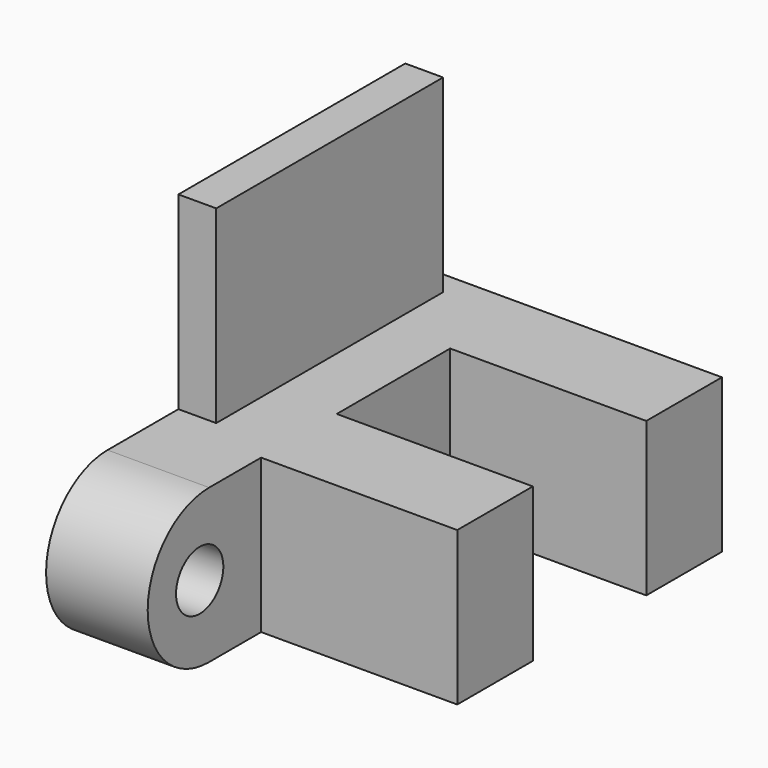
from build123d import *

# Parameters (mm, degrees)
SKETCH009_R               = 1.25
EXTRUDE006_DEPTH          = 1.6
SKETCH007_R               = 1.25
EXTRUDE004_DEPTH          = 11
EXTRUDE003_DEPTH          = 3.3
FUSION021_ROLL_ANGLE      = -90
FUSION021_PLACEMENT_ANGLE = -90


with BuildPart() as opticalsensorpcbonlyonetab:
    # Sketch009 → Extrude006 (new body)
    with BuildSketch(Plane.XY):
        with BuildLine():
            Line((-6, 0), (6, 0))
            Line((6, 0), (6, 8))
            Line((6, 8), (9.75, 8))
            ThreePointArc((9.75, 8), (13, 11.25), (9.75, 14.5))
            Line((-7, 14.5), (9.75, 14.5))
            Line((-7, 8), (-7, 14.5))
            Line((-6, 8), (-7, 8))
            Line((-6, 0), (-6, 8))
        make_face()
        with Locations((10.25, 11.25)):
            Circle(SKETCH009_R, mode=Mode.SUBTRACT)
    extrude(amount=EXTRUDE006_DEPTH)


with BuildPart() as obj1:
    # Sketch007 → Extrude004 (new body)
    with BuildSketch(Plane.XY):
        with BuildLine():
            Line((-7, 3.25), (9.75, 3.25))
            ThreePointArc((9.75, -3.25), (13, 0), (9.75, 3.25))
            Line((-7, -3.25), (9.75, -3.25))
            Line((-7, -3.25), (-7, 3.25))
        make_face()
        with Locations((10.25, 0)):
            Circle(SKETCH007_R, mode=Mode.SUBTRACT)
    extrude(amount=EXTRUDE004_DEPTH)


with BuildPart() as obj2:
    # Sketch006 → Extrude003 (new body, symmetric)
    with BuildSketch(Plane.XZ):
        Polygon((-7, 0), (13, 0), (13, 2.7), (7, 2.7), (7, 11), (3, 11), (3, 2.7), (-3, 2.7), (-3, 11), (-7, 11), align=None)
    extrude(amount=EXTRUDE003_DEPTH, both=True)

    # Common: intersect obj1
    add(obj1.part, mode=Mode.INTERSECT)


with BuildPart() as obj2_1:
    # Common placement: moved
    add(obj2.part.moved(Location((0, 11.25, 1.6))))

    # Fusion021: union OpticalSensorPcbOnlyOneTab
    add(opticalsensorpcbonlyonetab.part)


with BuildPart() as obj2_2:
    # Fusion021 roll: moved
    add(obj2_1.part.rotate(Axis((0, 0, 0), (1, 0, 0)), FUSION021_ROLL_ANGLE))


with BuildPart() as obj2_3:
    # Fusion021 placement: moved
    add(obj2_2.part.moved(Location((-24, 34, 11.25))).rotate(Axis((-24, 34, 11.25), (0, 0, 1)), FUSION021_PLACEMENT_ANGLE))


solid = obj2_3.part
